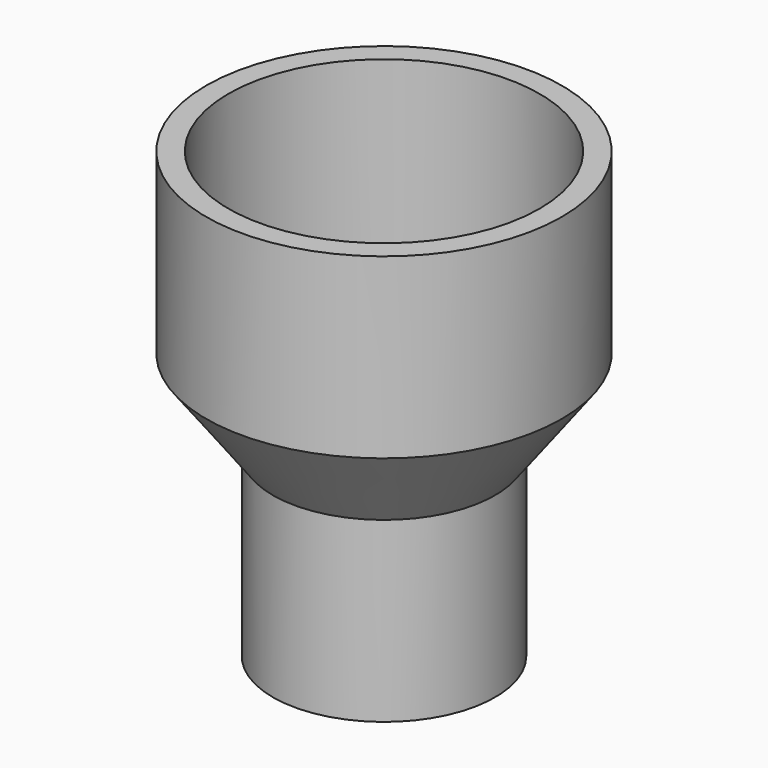
from build123d import *


with BuildPart() as part:
    # Sketch → Revolution (revolve)
    with BuildSketch(Plane.XZ):
        Polygon((-8, 20), (-7, 20), (-7, 12), (-4, 8), (-4, 0), (-5, 0), (-5, 8), (-8, 12), align=None)
    revolve(axis=Axis((0, 0, 0), (0, 0, 1)))


solid = part.part
